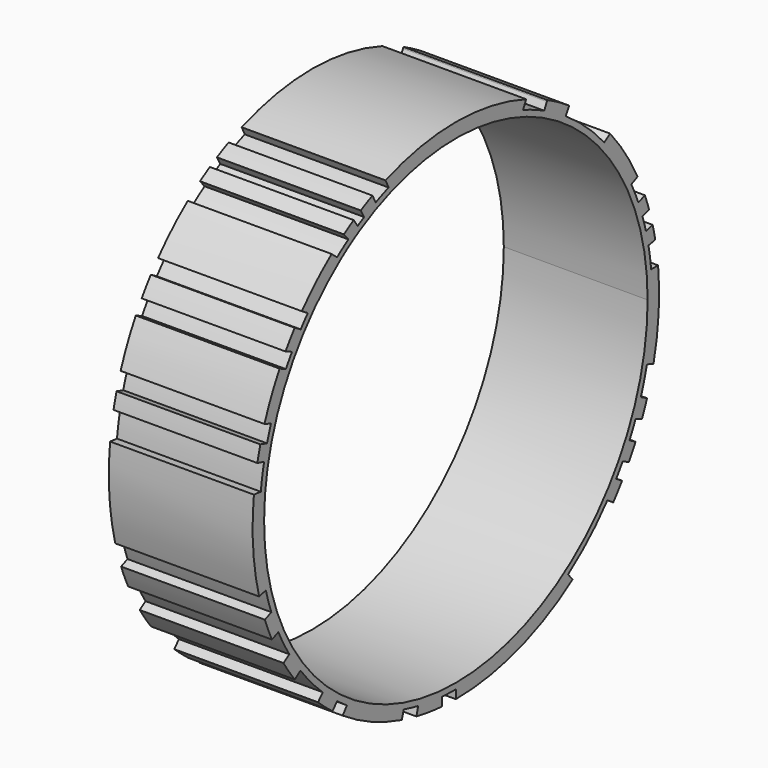
from build123d import *

# Parameters (mm, degrees)
F0_R     = 25
F1_DEPTH = 15
F3_DEPTH = 15
F4_DEPTH = 25


with BuildPart() as f1:
    # F0 (on Right) → F1 (new body)
    with BuildSketch(Plane.YZ):
        Circle(F0_R)
    extrude(amount=F1_DEPTH)

    # F2 (on Right) → F3 (join)
    with BuildSketch(Plane.YZ):
        with BuildLine():
            Line((8.7667769657, 24.0451374911), (9.167363807, 24.8638179053))
            ThreePointArc((9.167363807, 24.8638179053), (0, 26.5), (-9.167363807, 24.8638179053))
            Line((-9.167363807, 24.8638179053), (-8.7667769657, 24.0451374911))
            ThreePointArc((-8.7667769657, 24.0451374911), (-9.6126216367, 23.7196652717), (-10.4464123148, 23.3644491713))
            Line((-10.4464123148, 23.3644491713), (-10.8772899015, 24.1647380371))
            ThreePointArc((-10.8772899015, 24.1647380371), (-11.6457890541, 23.8038987838), (-12.4023348608, 23.4186269879))
            Line((-12.4023348608, 23.4186269879), (-11.9556482444, 22.6293501981))
            ThreePointArc((-11.9556482444, 22.6293501981), (-12.3825347012, 22.3986126737), (-12.804969819, 22.1598231777))
            Line((-12.804969819, 22.1598231777), (-13.3223791829, 22.9077326007))
            ThreePointArc((-13.3223791829, 22.9077326007), (-13.9672221354, 22.5203620268), (-14.600810194, 22.1148443738))
            Line((-14.600810194, 22.1148443738), (-14.015124401, 21.4149784813))
            ThreePointArc((-14.015124401, 21.4149784813), (-14.7606746545, 20.9080725815), (-15.4879088774, 20.3752225494))
            Line((-15.4879088774, 20.3752225494), (-16.2037561785, 20.9687454491))
            ThreePointArc((-16.2037561785, 20.9687454491), (-18.2372791356, 19.2263269953), (-20.0845666163, 17.2875731043))
            Line((-20.0845666163, 17.2875731043), (-19.3056392832, 16.8023006519))
            ThreePointArc((-19.3056392832, 16.8023006519), (-19.7753879115, 16.2468165583), (-20.2291590487, 15.6782058768))
            Line((-20.2291590487, 15.6782058768), (-21.0144669293, 16.1444163622))
            ThreePointArc((-21.0144669293, 16.1444163622), (-21.6282376373, 15.3123916063), (-22.2090853884, 14.4570580068))
            Line((-22.2090853884, 14.4570580068), (-21.3699018236, 14.0837605553))
            ThreePointArc((-21.3699018236, 14.0837605553), (-21.7713613337, 13.4548445182), (-22.154317385, 12.8144932219))
            Line((-22.154317385, 12.8144932219), (-22.9818096131, 13.194181555))
            ThreePointArc((-22.9818096131, 13.194181555), (-24.0639443096, 11.0984946846), (-24.9554549092, 8.9148903682))
            Line((-24.9554549092, 8.9148903682), (-24.1033509171, 8.6054337427))
            ThreePointArc((-24.1033509171, 8.6054337427), (-24.3734577278, 7.8076612198), (-24.6171678383, 7.0014329212))
            Line((-24.6171678383, 7.0014329212), (-25.4871480775, 7.2563959978))
            ThreePointArc((-25.4871480775, 7.2563959978), (-25.6948474434, 6.4826549236), (-25.8790632637, 5.7029890927))
            Line((-25.8790632637, 5.7029890927), (-25.0040927329, 5.4608023163))
            ThreePointArc((-25.0040927329, 5.4608023163), (-25.2499410388, 4.1791737064), (-25.4301414932, 2.8866795751))
            Line((-25.4301414932, 2.8866795751), (-26.3314749458, 2.9838611194))
            ThreePointArc((-26.3314749458, 2.9838611194), (-26.4345464349, -1.8613851782), (-25.6535038217, -6.6443766953))
            Line((-25.6535038217, -6.6443766953), (-24.770581207, -6.4376487942))
            ThreePointArc((-24.770581207, -6.4376487942), (-24.4413101827, -7.5925866398), (-24.0582217907, -8.7308063544))
            Line((-24.0582217907, -8.7308063544), (-24.8963284614, -9.0787019525))
            ThreePointArc((-24.8963284614, -9.0787019525), (-24.4631018107, -10.1885548434), (-23.980427863, -11.2778135961))
            Line((-23.980427863, -11.2778135961), (-23.1421674569, -10.9300091824))
            ThreePointArc((-23.1421674569, -10.9300091824), (-22.4663708469, -12.2591678469), (-21.714316209, -13.5467149858))
            Line((-21.714316209, -13.5467149858), (-22.4678164464, -14.0515915159))
            ThreePointArc((-22.4678164464, -14.0515915159), (-21.7600378171, -15.1245083953), (-21.0010668987, -16.1618436175))
            Line((-21.0010668987, -16.1618436175), (-20.2669140588, -15.6293701045))
            ThreePointArc((-20.2669140588, -15.6293701045), (-18.8785289932, -17.2808031753), (-17.3559862837, -18.809432619))
            Line((-17.3559862837, -18.809432619), (-17.9685421311, -19.4777178766))
            ThreePointArc((-17.9685421311, -19.4777178766), (-17.0517267057, -20.2851821869), (-16.0986698562, -21.0495327468))
            Line((-16.0986698562, -21.0495327468), (-15.4646276122, -20.3928984734))
            ThreePointArc((-15.4646276122, -20.3928984734), (-14.8389602034, -20.8525843821), (-14.1996376023, -21.2930812071))
            Line((-14.1996376023, -21.2930812071), (-14.7619831931, -22.0075862422))
            ThreePointArc((-14.7619831931, -22.0075862422), (-11.0464779391, -24.0878667619), (-7.0457455252, -25.5461830807))
            Line((-7.0457455252, -25.5461830807), (-6.7939183804, -24.675244444))
            ThreePointArc((-6.7939183804, -24.675244444), (-5.8600138867, -24.9135555989), (-4.9177986021, -25.1165338421))
            Line((-4.9177986021, -25.1165338421), (-5.1447925105, -25.9957902366))
            ThreePointArc((-5.1447925105, -25.9957902366), (-3.4860237826, -26.2697095185), (-1.8132238626, -26.4378936231))
            Line((-1.8132238626, -26.4378936231), (-1.8132238626, -25.5291448066))
            ThreePointArc((-1.8132238626, -25.5291448066), (-0.9071820061, -25.5773735192), (0, -25.5934564944))
            Line((0, -25.5934564944), (0, -26.5))
            ThreePointArc((0, -26.5), (7.9810933491, -25.2695894101), (15.2210529793, -21.6926150153))
            Line((15.2210529793, -21.6926150153), (14.6331353927, -20.9975323291))
            ThreePointArc((14.6331353927, -20.9975323291), (17.3553470272, -18.8100224586), (19.7544267456, -16.2722966812))
            Line((19.7544267456, -16.2722966812), (20.5165201568, -16.7726682629))
            ThreePointArc((20.5165201568, -16.7726682629), (21.1093381988, -16.0201698122), (21.6745709529, -15.2467365035))
            Line((21.6745709529, -15.2467365035), (20.9011169086, -14.7705222421))
            ThreePointArc((20.9011169086, -14.7705222421), (21.3340901742, -14.1379493481), (21.7479249086, -13.4926934858))
            Line((21.7479249086, -13.4926934858), (22.5588780332, -13.9049279712))
            ThreePointArc((22.5588780332, -13.9049279712), (23.0060041379, -13.1519494223), (23.4280063282, -12.3846081684))
            Line((23.4280063282, -12.3846081684), (22.6385053111, -11.93830359))
            ThreePointArc((22.6385053111, -11.93830359), (23.053686941, -11.1154187397), (23.4389697754, -10.2781180768))
            Line((23.4389697754, -10.2781180768), (24.267045054, -10.6470899475))
            ThreePointArc((24.267045054, -10.6470899475), (24.6102450352, -9.8278094866), (24.925794396, -8.9974870785))
            Line((24.925794396, -8.9974870785), (24.1178160427, -8.5648096686))
            ThreePointArc((24.1178160427, -8.5648096686), (24.5495291024, -7.2350284161), (24.9079826306, -5.8836567376))
            Line((24.9079826306, -5.8836567376), (25.7684601297, -6.183563903))
            ThreePointArc((25.7684601297, -6.183563903), (26.4382446614, -1.8080982335), (26.3703819824, 2.6178147571))
            Line((26.3703819824, 2.6178147571), (25.4592235001, 2.6178147571))
            ThreePointArc((25.4592235001, 2.6178147571), (25.3114799464, 3.7886670817), (25.1099187709, 4.9514638896))
            Line((25.1099187709, 4.9514638896), (25.9998556245, 5.1242079882))
            ThreePointArc((25.9998556245, 5.1242079882), (25.8404971142, 5.8752624528), (25.6594477487, 6.6213851444))
            Line((25.6594477487, 6.6213851444), (24.7804638947, 6.3995018943))
            ThreePointArc((24.7804638947, 6.3995018943), (24.565922533, 7.179168854), (24.3268571199, 7.9516688812))
            Line((24.3268571199, 7.9516688812), (25.1932767406, 8.2188081296))
            ThreePointArc((25.1932767406, 8.2188081296), (24.9270062981, 8.9941290304), (24.6368818038, 9.7608429444))
            Line((24.6368818038, 9.7608429444), (23.797443763, 9.4184226747))
            ThreePointArc((23.797443763, 9.4184226747), (23.3599091422, 10.4565606294), (22.8771127008, 11.4744381042))
            Line((22.8771127008, 11.4744381042), (23.7017475478, 11.8523062389))
            ThreePointArc((23.7017475478, 11.8523062389), (22.0684810977, 14.6707921409), (20.1017465557, 17.2675935038))
            Line((20.1017465557, 17.2675935038), (19.3490827507, 16.752253939))
            ThreePointArc((19.3490827507, 16.752253939), (16.9830440824, 19.1468333942), (14.3231931258, 21.2101662891))
            Line((14.3231931258, 21.2101662891), (14.767734035, 22.0037276722))
            ThreePointArc((14.767734035, 22.0037276722), (13.3677835034, 22.8812666652), (11.915866869, 23.6698567119))
            Line((11.915866869, 23.6698567119), (11.86207115, 23.5452761594))
            Line((11.86207115, 23.5452761594), (11.5231473656, 22.8526167019))
            ThreePointArc((11.5231473656, 22.8526167019), (10.1624693751, 23.4893429353), (8.7667769657, 24.0451374911))
        make_face()
        with BuildLine():
            ThreePointArc((25, 0), (-11.1699631634, -22.3658651281), (-15.0185538343, 19.9860711678))
            ThreePointArc((-15.0185538343, 19.9860711678), (-13.7681439239, 20.8671563202), (-12.4661896956, 21.6701203152))
            ThreePointArc((-12.4661896956, 21.6701203152), (-0.6839357102, 24.9906428878), (11.262295833, 22.3195137171))
            ThreePointArc((11.262295833, 22.3195137171), (21.2903428322, 13.1042474827), (25, 0))
        make_face(mode=Mode.SUBTRACT)
    extrude(amount=F3_DEPTH)

    # F2 (on Right) → F4 (cut)
    with BuildSketch(Plane.YZ):
        with BuildLine():
            ThreePointArc((-12.4661896956, 21.6701203152), (-13.7681439239, 20.8671563202), (-15.0185538343, 19.9860711678))
            ThreePointArc((-15.0185538343, 19.9860711678), (-11.1699631634, -22.3658651281), (25, 0))
            ThreePointArc((25, 0), (21.2903428322, 13.1042474827), (11.262295833, 22.3195137171))
            ThreePointArc((11.262295833, 22.3195137171), (-0.6839357102, 24.9906428878), (-12.4661896956, 21.6701203152))
        make_face()
    extrude(amount=F4_DEPTH, mode=Mode.SUBTRACT)


solid = f1.part
